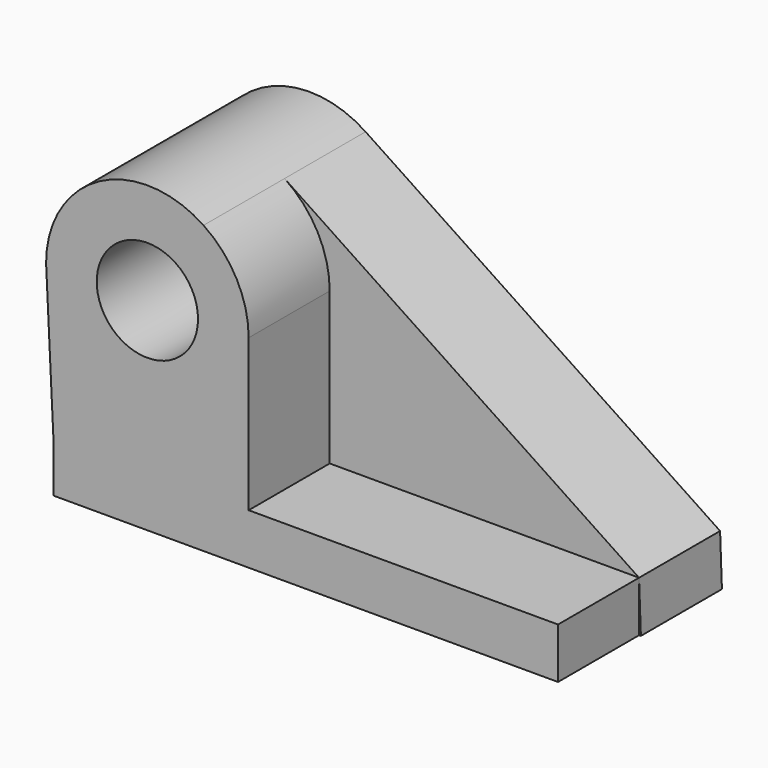
from build123d import *

# Parameters (mm, degrees)
F1_DEPTH = 25.4
F2_R     = 12.7
F3_DEPTH = 25.4


with BuildPart() as f1:
    # F0 (on Front) → F1 (new body)
    with BuildSketch(Plane.XZ):
        with BuildLine():
            ThreePointArc((-24.391064, 71.906237), (-50.461929, 73.159197), (-63.872557, 50.7669))
            Line((-63.872557, 50.7669), (-63.806378, 48.934551))
            ThreePointArc((-63.806378, 48.934551), (-37.555786, 25.38345), (-13.072557, 50.7669))
            ThreePointArc((-13.072557, 50.7669), (-16.08026, 62.756272), (-24.391064, 71.906237))
        make_face()
        with BuildLine():
            ThreePointArc((-51.172557, 50.7669), (-38.472557, 63.4669), (-25.772557, 50.7669))
            ThreePointArc((-25.772557, 50.7669), (-38.472557, 38.0669), (-51.172557, 50.7669))
        make_face(mode=Mode.SUBTRACT)
        with BuildLine():
            Line((64.5026, 12.691725), (-24.391064, 71.906237))
            ThreePointArc((-24.391064, 71.906237), (-16.08026, 62.756272), (-13.072557, 50.7669))
            ThreePointArc((-13.072557, 50.7669), (-37.555786, 25.38345), (-63.806378, 48.934551))
            Line((-63.806378, 48.934551), (-62.039014, 0))
            Line((-62.039014, 0), (64.960986, 0))
            Line((64.960986, 0), (64.5026, 12.691725))
        make_face()
    extrude(amount=F1_DEPTH)

    # F2 (on face) → F3 (join)
    with BuildSketch(Plane.XZ.offset(25.4)):
        with BuildLine():
            Line((-13.072557, 12.691725), (-13.072557, 50.7669))
            ThreePointArc((-13.072557, 50.7669), (-16.08026, 62.756272), (-24.391064, 71.906237))
            ThreePointArc((-24.391064, 71.906237), (-50.461929, 73.159197), (-63.872557, 50.7669))
            Line((-63.872557, 50.7669), (-63.755025, 48.326241))
            Line((-63.755025, 48.326241), (-62.039014, 12.691725))
            Line((-62.039014, 12.691725), (-62.039014, 0))
            Line((-62.039014, 0), (64.5026, 0))
            Line((64.5026, 0), (64.5026, 12.691725))
            Line((64.5026, 12.691725), (-13.072557, 12.691725))
        make_face()
        with Locations((-38.472557, 50.7669)):
            Circle(F2_R, mode=Mode.SUBTRACT)
    extrude(amount=F3_DEPTH)


solid = f1.part
